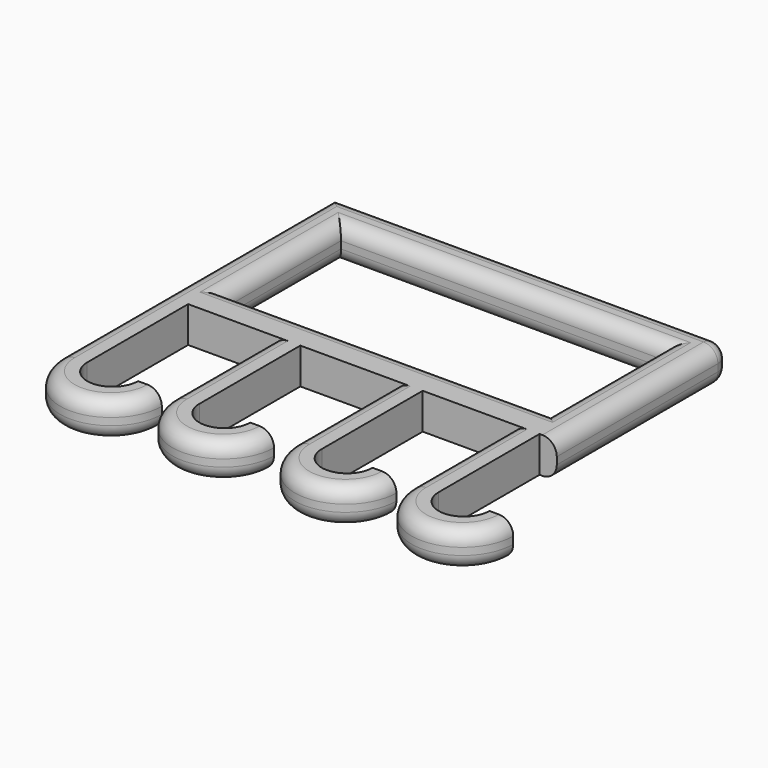
from build123d import *

# Parameters (mm, degrees)
F0_W     = 114.3
F0_H     = 50.8
F1_DEPTH = 12.7
F2_R     = 5.08


with BuildPart() as f1:
    # F0 (on Top) → F1 (new body)
    with BuildSketch(Plane.XY):
        Polygon((69.85, -38.1), (69.85, 38.1), (-69.85, 38.1), (-69.85, -38.1), (-60.325, -38.1), (-34.925, -38.1), (-30.233458, -38.1), (-20.708458, -38.1), (0, -38.1), (12.980977, -38.1), (22.505977, -38.1), (54.240569, -38.1), (63.765569, -38.1), align=None)
        Rectangle(F0_W, F0_H, mode=Mode.SUBTRACT)
        with BuildLine():
            Line((-60.325, -38.1), (-69.85, -38.1))
            Line((-69.85, -38.1), (-69.85, -82.632939))
            ThreePointArc((-69.85, -82.632939), (-51.918155, -100.564784), (-33.98631, -82.632939))
            Line((-33.98631, -82.632939), (-42.393155, -82.632939))
            ThreePointArc((-42.393155, -82.632939), (-51.359078, -91.598862), (-60.325, -82.632939))
            Line((-60.325, -82.632939), (-60.325, -38.1))
        make_face()
        with BuildLine():
            Line((63.765569, -82.632939), (63.765569, -38.1))
            Line((63.765569, -38.1), (54.240569, -38.1))
            Line((54.240569, -38.1), (54.240569, -82.632939))
            ThreePointArc((54.240569, -82.632939), (72.172414, -100.564784), (90.104259, -82.632939))
            Line((90.104259, -82.632939), (81.697414, -82.632939))
            ThreePointArc((81.697414, -82.632939), (72.731492, -91.598862), (63.765569, -82.632939))
        make_face()
        with BuildLine():
            Line((22.505977, -82.632939), (22.505977, -38.1))
            Line((22.505977, -38.1), (12.980977, -38.1))
            Line((12.980977, -38.1), (12.980977, -82.632939))
            ThreePointArc((12.980977, -82.632939), (30.912822, -100.564784), (48.844667, -82.632939))
            Line((48.844667, -82.632939), (40.437822, -82.632939))
            ThreePointArc((40.437822, -82.632939), (31.471899, -91.598862), (22.505977, -82.632939))
        make_face()
        with BuildLine():
            Line((-20.708458, -38.1), (-30.233458, -38.1))
            Line((-30.233458, -38.1), (-30.233458, -82.632939))
            ThreePointArc((-30.233458, -82.632939), (-12.301613, -100.564784), (5.630232, -82.632939))
            Line((5.630232, -82.632939), (-2.776613, -82.632939))
            ThreePointArc((-2.776613, -82.632939), (-11.742535, -91.598862), (-20.708458, -82.632939))
            Line((-20.708458, -82.632939), (-20.708458, -38.1))
        make_face()
    extrude(amount=F1_DEPTH)

    # F2
    f2_edges = [f1.edges().sort_by_distance(p)[0] for p in [
        (0, 25.4, 12.7),
        (-57.15, 0, 12.7),
        (0, -25.4, 12.7),
        (57.15, 0, 12.7),
        (0, 38.1, 12.7),
        (69.85, 38.1, 6.35),
        (69.85, 0, 12.7),
        (69.85, 0, 0),
        (0, 38.1, 0),
        (0, -25.4, 0),
        (57.15, 0, 0),
        (0, 25.4, 0),
        (-57.15, 0, 0),
        (-69.85, -22.26647, 0),
        (-69.85, -22.26647, 12.7),
        (-30.233458, -60.36647, 12.7),
        (-30.233458, -60.36647, 0),
        (12.980977, -60.36647, 12.7),
        (12.980977, -60.36647, 0),
        (54.240569, -60.36647, 12.7),
        (54.240569, -60.36647, 0),
    ]]
    fillet(f2_edges, radius=F2_R)


solid = f1.part
